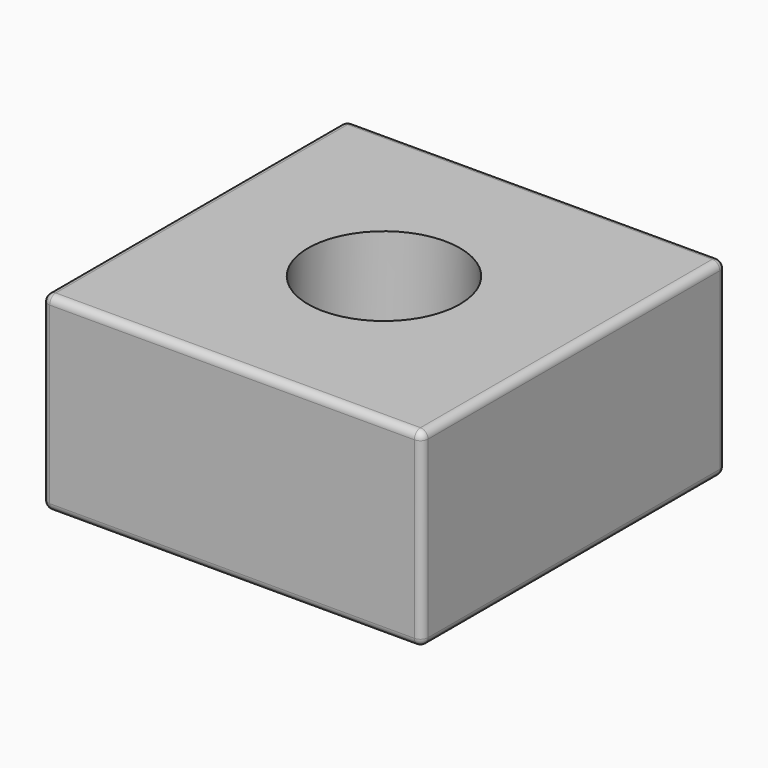
from build123d import *

# Parameters (mm, degrees)
F0_W     = 12.7
F0_H     = 12.7
F0_R     = 2.54
F1_DEPTH = 6.35
F2_SIZE  = 2.54
F3_R     = 0.254


with BuildPart() as f1:
    # F0 (on Top) → F1 (new body)
    with BuildSketch(Plane.XY):
        Rectangle(F0_W, F0_H)
        Circle(F0_R, mode=Mode.SUBTRACT)
    extrude(amount=F1_DEPTH)

    # F2
    f2_edges = [f1.edges().sort_by_distance(p)[0] for p in [
        (-2.54, 0, 0),
    ]]
    chamfer(f2_edges, length=F2_SIZE)

    # F3
    f3_edges = [f1.edges().sort_by_distance(p)[0] for p in [
        (0, -6.35, 6.35),
        (0, -6.35, 0),
        (6.35, 0, 0),
        (6.35, 0, 6.35),
        (6.35, -6.35, 3.175),
        (6.35, 6.35, 3.175),
        (0, 6.35, 6.35),
        (-6.35, 6.35, 3.175),
        (-6.35, 0, 6.35),
        (-6.35, -6.35, 3.175),
        (-6.35, 0, 0),
        (0, 6.35, 0),
    ]]
    fillet(f3_edges, radius=F3_R)


solid = f1.part
